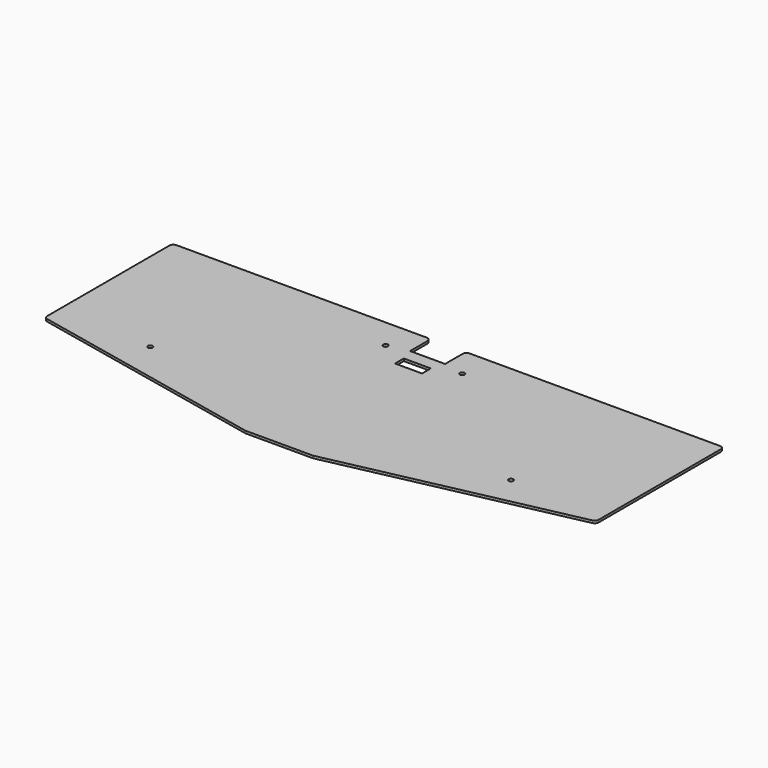
from build123d import *

# Parameters (mm, degrees)
SKETCH006_W     = 13.6
SKETCH006_H     = 5.5
PAD001_DEPTH    = 1.2
FILLET001_R     = 2
SKETCH011_R     = 1.2
POCKET001_DEPTH = 1.2


with BuildPart() as part:
    # Sketch006 (on DatumPlane) → Pad001 (new body)
    with BuildSketch(Plane.XY.offset(2.2)):
        Polygon((9.202145, -8.293724), (9.202145, -88.808503), (130.974502, -114.692017), (165.022509, -114.692017), (286.852356, -88.796284), (286.852356, -8.293724), (156.82725, -8.293724), (156.82725, -21.293724), (139.22725, -21.293724), (139.22725, -8.293724), align=None)
        with Locations((148.02725, -30.543724)):
            Rectangle(SKETCH006_W, SKETCH006_H, mode=Mode.SUBTRACT)
    extrude(amount=PAD001_DEPTH)

    # Fillet001
    fillet001_edges = [part.edges().sort_by_distance(p)[0] for p in [
        (9.202145, -8.293724, 2.8),
        (9.202145, -88.808503, 2.8),
        (156.82725, -8.293724, 2.8),
        (139.22725, -8.293724, 2.8),
        (286.852356, -8.293724, 2.8),
        (130.974502, -114.692017, 2.8),
        (165.022509, -114.692017, 2.8),
        (286.852356, -88.796284, 2.8),
    ]]
    fillet(fillet001_edges, radius=FILLET001_R)

    # Sketch011 (on Face5 of Fillet001) → Pocket001 (cut)
    with BuildSketch(Plane.XY.offset(3.4)):
        with Locations((128.72725, -23.589033)):
            Circle(SKETCH011_R)
        with Locations((167.327251, -23.589033)):
            Circle(SKETCH011_R)
        with Locations((238.852356, -82.293724)):
            Circle(SKETCH011_R)
        with Locations((57.202145, -82.293724)):
            Circle(SKETCH011_R)
    extrude(amount=-POCKET001_DEPTH, mode=Mode.SUBTRACT)


solid = part.part
